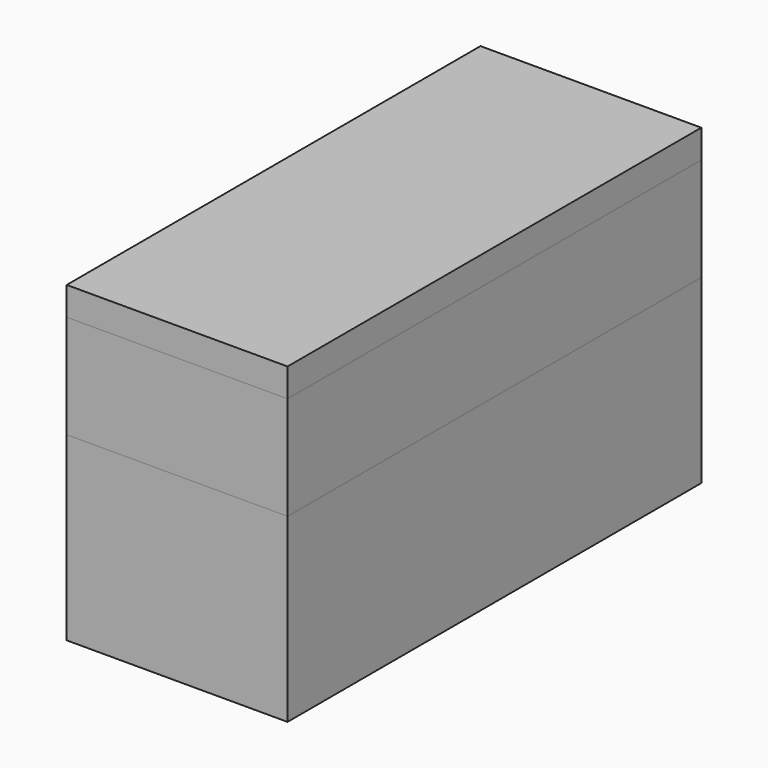
from build123d import *

# Parameters (mm, degrees)
F0_W     = 10.8458
F0_H     = 1.397
F1_DEPTH = 25.4
F2_W     = 10.8458
F2_H     = 5.08
F3_DEPTH = 25.4
F4_W     = 10.8458
F4_H     = 8.89
F5_DEPTH = 25.4


with BuildPart() as f1:
    # F0 (on Front) → F1 (new body)
    with BuildSketch(Plane.XZ):
        with Locations((0, -0.6985)):
            Rectangle(F0_W, F0_H)
    extrude(amount=-F1_DEPTH)


with BuildPart() as f3:
    # F2 (on Front) → F3 (new body)
    with BuildSketch(Plane.XZ):
        with Locations((0, -3.937)):
            Rectangle(F2_W, F2_H)
    extrude(amount=-F3_DEPTH)


with BuildPart() as f5:
    # F4 (on Front) → F5 (new body)
    with BuildSketch(Plane.XZ):
        with Locations((0, -10.922)):
            Rectangle(F4_W, F4_H)
    extrude(amount=-F5_DEPTH)


solid = Compound([f1.part, f3.part, f5.part])
